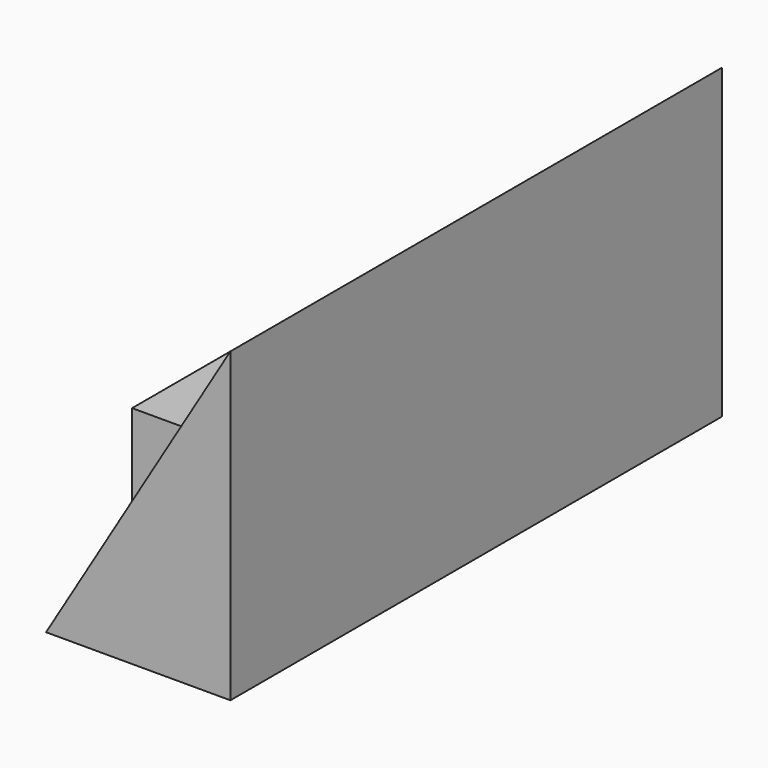
from build123d import *

# Parameters (mm, degrees)
F1_DEPTH = 63.5
F2_DEPTH = 63.5
F3_DEPTH = 41.275
F4_DEPTH = 41.275


with BuildPart() as f1:
    # F0 (on Front) → F1 (new body)
    with BuildSketch(Plane.XZ):
        Polygon((13.4078674018, -35.1227857172), (51.5078674018, -35.1227857172), (51.5078674018, 28.3772142828), (32.4578674018, -3.3727857172), align=None)
    extrude(amount=F1_DEPTH)

    # F2 (add): a face of the model
    f2_faces = [f1.faces().sort_by_distance(p)[0] for p in [
        (38.8078674018, 0, -13.9561190506),
    ]]
    extrude(f2_faces, amount=F2_DEPTH)

    # F0 (on Front) → F3 (join)
    with BuildSketch(Plane.XZ):
        Polygon((13.4078674018, -35.1227857172), (51.5078674018, -35.1227857172), (51.5078674018, 28.3772142828), (32.4578674018, -3.3727857172), align=None)
        Polygon((13.4078674018, -3.3727857172), (13.4078674018, -35.1227857172), (32.4578674018, -3.3727857172), align=None)
    extrude(amount=F3_DEPTH)

    # F4 (add): a face of the model
    f4_faces = [f1.faces().sort_by_distance(p)[0] for p in [
        (19.7578674018, 0, -13.9561190506),
    ]]
    extrude(f4_faces, amount=F4_DEPTH)


solid = f1.part
